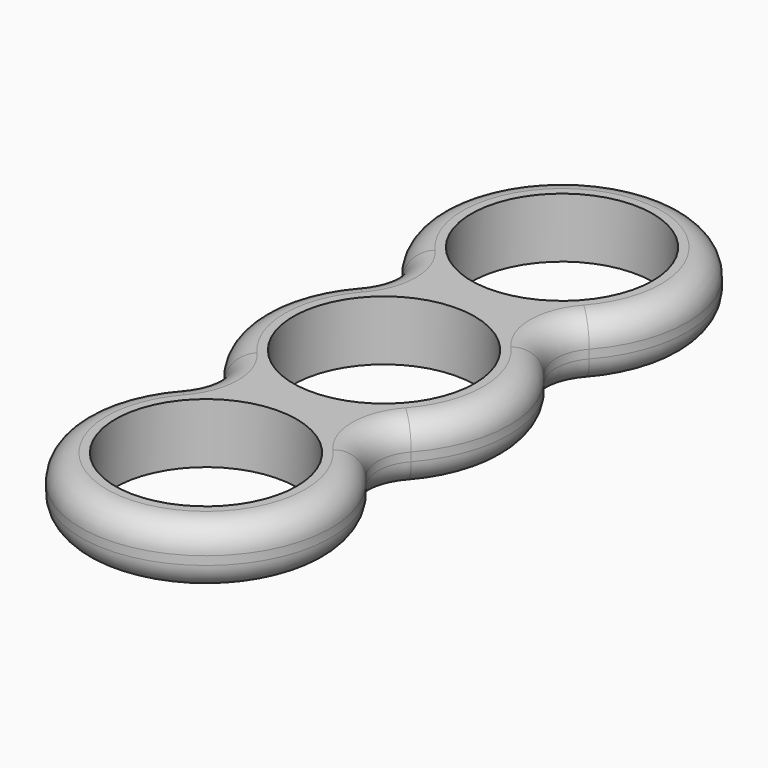
from build123d import *

# Parameters (mm, degrees)
F0_R     = 10.6
F1_DEPTH = 7
F2_R     = 3


with BuildPart() as f1:
    # F0 (on Top) → F1 (new body)
    with BuildSketch(Plane.XY):
        with BuildLine():
            ThreePointArc((10.926411, 16.316327), (0, 40.6), (-10.926411, 16.316327))
            ThreePointArc((-10.926411, 16.316327), (-9.668333, 13), (-10.926411, 9.683673))
            ThreePointArc((-10.926411, 9.683673), (-14.6, 0), (-10.926411, -9.683673))
            ThreePointArc((-10.926411, -9.683673), (-9.668333, -13), (-10.926411, -16.316327))
            ThreePointArc((-10.926411, -16.316327), (0, -40.6), (10.926411, -16.316327))
            ThreePointArc((10.926411, -16.316327), (9.668333, -13), (10.926411, -9.683673))
            ThreePointArc((10.926411, -9.683673), (14.6, 0), (10.926411, 9.683673))
            ThreePointArc((10.926411, 9.683673), (9.668333, 13), (10.926411, 16.316327))
        make_face()
        with Locations((0, -26)):
            Circle(F0_R, mode=Mode.SUBTRACT)
        Circle(F0_R, mode=Mode.SUBTRACT)
        with Locations((0, 26)):
            Circle(F0_R, mode=Mode.SUBTRACT)
    extrude(amount=F1_DEPTH)

    # F2
    f2_edges = [f1.edges().sort_by_distance(p)[0] for p in [
        (0, 40.6, 7),
        (0, 40.6, 0),
    ]]
    fillet(f2_edges, radius=F2_R)


solid = f1.part
